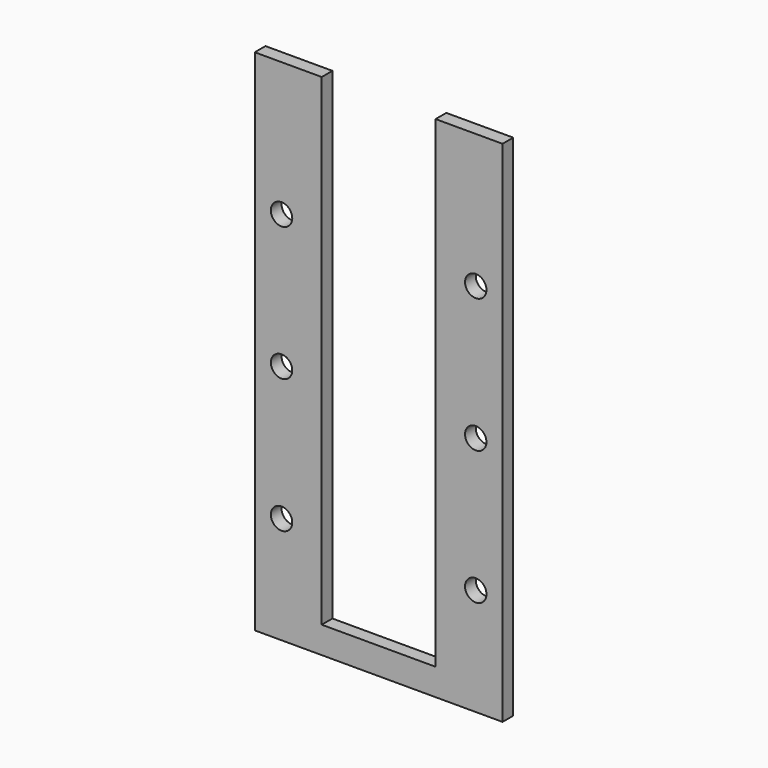
from build123d import *

# Parameters (mm, degrees)
F0_W     = 3.175
F0_H     = 114.3
F0_R     = 2.54
F1_DEPTH = 3.175


with BuildPart() as f1:
    # F0 (on Front) → F1 (new body)
    with BuildSketch(Plane.XZ):
        with Locations((-50.270172, -47.908469)):
            Rectangle(F0_W, F0_H)
        Polygon((-21.695172, -105.058469), (-48.682672, -105.058469), (-51.857672, -105.058469), (-51.857672, 9.241531), (-64.557672, 9.241531), (-64.557672, -111.408469), (-5.820172, -111.408469), (-5.820172, 9.241531), (-18.520172, 9.241531), (-18.520172, -105.058469), align=None)
        with Locations((-58.207672, -86.008469)):
            Circle(F0_R, mode=Mode.SUBTRACT)
        with Locations((-58.207672, -54.258469)):
            Circle(F0_R, mode=Mode.SUBTRACT)
        with Locations((-12.170172, -86.008469)):
            Circle(F0_R, mode=Mode.SUBTRACT)
        with Locations((-12.170172, -54.258469)):
            Circle(F0_R, mode=Mode.SUBTRACT)
        with Locations((-58.207672, -22.508469)):
            Circle(F0_R, mode=Mode.SUBTRACT)
        with Locations((-12.170172, -22.508469)):
            Circle(F0_R, mode=Mode.SUBTRACT)
        with Locations((-20.107672, -47.908469)):
            Rectangle(F0_W, F0_H)
    extrude(amount=F1_DEPTH)


solid = f1.part
